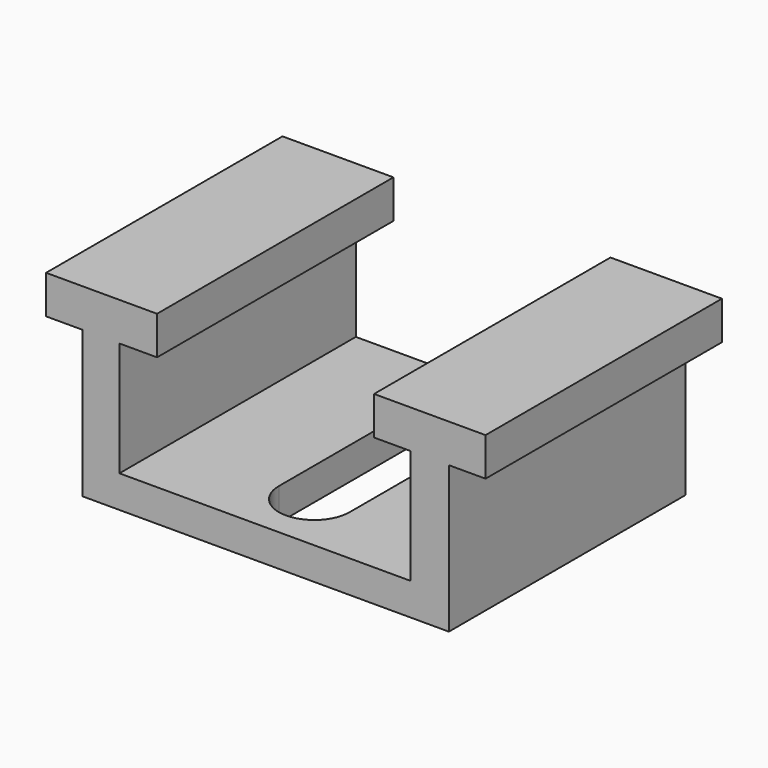
from build123d import *

# Parameters (mm, degrees)
F1_DEPTH = 41
F3_DEPTH = 25


with BuildPart() as f1:
    # F0 (on Front) → F1 (new body)
    with BuildSketch(Plane.XZ):
        Polygon((15.397609, 0), (0, 0), (0, -5.324407), (5.036601, -5.324407), (5.036601, -25.664302), (55.889241, -25.664302), (55.889241, -5.324407), (60.976975, -5.324407), (60.976975, 0), (45.510266, 0), (45.510266, -5.324407), (50.597999, -5.324407), (50.597999, -21.187095), (10.17818, -21.187095), (10.17818, -5.324407), (15.397609, -5.324407), align=None)
    extrude(amount=F1_DEPTH)

    # F2 (on face) → F3 (cut)
    with BuildSketch(Plane.XY.offset(-21.187095)):
        with BuildLine():
            ThreePointArc((35.350505, -7.902889), (30.443043, -2.995427), (25.535582, -7.902889))
            Line((25.535582, -7.902889), (25.535582, -32.540347))
            ThreePointArc((25.535582, -32.540347), (30.443043, -37.447809), (35.350505, -32.540347))
            Line((35.350505, -32.540347), (35.350505, -7.902889))
        make_face()
    extrude(amount=-F3_DEPTH, mode=Mode.SUBTRACT)


solid = f1.part
